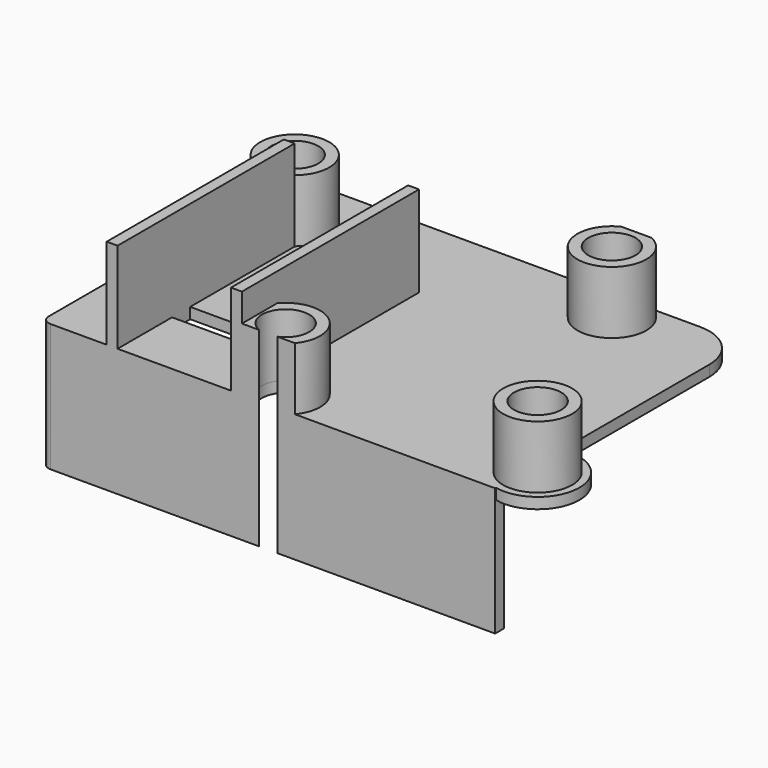
from build123d import *

# Parameters (mm, degrees)
SKETCH_W        = 50
SKETCH_H        = 34.5
PAD_DEPTH       = 1.2
SKETCH001_R     = 2.6
POCKET_DEPTH    = 1.201
SKETCH002_W     = 1.2
SKETCH002_H     = 24.4
PAD001_DEPTH    = 10
SKETCH003_W     = 50
SKETCH003_H     = 14.1
PAD002_DEPTH    = 1.2
SKETCH004_R     = 2.6
SKETCH004_W     = 12.5
SKETCH004_H     = 2.5
POCKET001_DEPTH = 14.101
SKETCH005_R     = 4.6
SKETCH005_R_2   = 2.6
PAD003_DEPTH    = 1.2
FILLET_R        = 1
FILLET001_R     = 5
SKETCH006_R     = 3.8
SKETCH006_R_2   = 2.6
PAD004_DEPTH    = 6.9
SKETCH007_W     = 9
SKETCH007_H     = 2
SKETCH007_W_2   = 3.353744
SKETCH007_H_2   = 0.7
POCKET002_DEPTH = 10


with BuildPart() as part:
    # Sketch → Pad (new body)
    with BuildSketch(Plane.XY):
        Rectangle(SKETCH_W, SKETCH_H)
    extrude(amount=PAD_DEPTH)

    # Sketch001 (on Face6 of Pad) → Pocket (cut, through all)
    with BuildSketch(Plane.XY.offset(1.2)):
        with Locations((0, -14.85)):
            Circle(SKETCH001_R)
        with Locations((-19, 10.15)):
            Circle(SKETCH001_R)
        with Locations((13, 13.842333)):
            Circle(SKETCH001_R)
        with Locations((26, -12.638792)):
            Circle(SKETCH001_R)
    extrude(amount=-POCKET_DEPTH, mode=Mode.SUBTRACT)

    # Sketch002 (on Face5 of Pocket) → Pad001 (join)
    with BuildSketch(Plane.XY.offset(1.2)):
        with Locations((-3.5, -5.05)):
            Rectangle(SKETCH002_W, SKETCH002_H)
        with Locations((-17.2, -5.05)):
            Rectangle(SKETCH002_W, SKETCH002_H)
    extrude(amount=PAD001_DEPTH)

    # Sketch003 (on Face6 of Pad001) → Pad002 (join)
    with BuildSketch(Plane.XZ.offset(17.25)):
        with Locations((0, -5.85)):
            Rectangle(SKETCH003_W, SKETCH003_H)
    extrude(amount=-PAD002_DEPTH)

    # Sketch004 (on Face5 of Pad002) → Pocket001 (cut, through all)
    with BuildSketch(Plane.XY.offset(1.2)):
        with Locations((0, -14.85)):
            Circle(SKETCH004_R)
        with Locations((-10.35, -8.5)):
            Rectangle(SKETCH004_W, SKETCH004_H)
    extrude(amount=-POCKET001_DEPTH, mode=Mode.SUBTRACT)

    # Sketch005 (on Face5 of Pocket001) → Pad003 (join)
    with BuildSketch(Plane.XY.offset(1.2)):
        with Locations((26, -12.638792)):
            Circle(SKETCH005_R)
        with Locations((26, -12.638792)):
            Circle(SKETCH005_R_2, mode=Mode.SUBTRACT)
    extrude(amount=-PAD003_DEPTH)

    # Fillet
    fillet_edges = [part.edges().sort_by_distance(p)[0] for p in [
        (-25, -17.25, -6.45),
        (-25, -17.25, 0.6),
    ]]
    fillet(fillet_edges, radius=FILLET_R)

    # Fillet001
    fillet001_edges = [part.edges().sort_by_distance(p)[0] for p in [
        (-25, 17.25, 0.6),
        (25, 17.25, 0.6),
    ]]
    fillet(fillet001_edges, radius=FILLET001_R)

    # Sketch006 (on Face5 of Fillet001) → Pad004 (join)
    with BuildSketch(Plane.XY.offset(1.2)):
        with Locations((-19, 10.15)):
            Circle(SKETCH006_R)
        with Locations((-19, 10.15)):
            Circle(SKETCH006_R_2, mode=Mode.SUBTRACT)
        with Locations((12.996001, 13.84)):
            Circle(SKETCH006_R)
        with Locations((12.996001, 13.84)):
            Circle(SKETCH006_R_2, mode=Mode.SUBTRACT)
        with Locations((26, -12.638792)):
            Circle(SKETCH006_R)
        with Locations((26, -12.638792)):
            Circle(SKETCH006_R_2, mode=Mode.SUBTRACT)
        with Locations((0, -14.85)):
            Circle(SKETCH006_R)
        with Locations((0, -14.85)):
            Circle(SKETCH006_R_2, mode=Mode.SUBTRACT)
    extrude(amount=PAD004_DEPTH)

    # Sketch007 (on Face5 of Pad004) → Pocket002 (cut)
    with BuildSketch(Plane.XY.offset(1.2)):
        with Locations((0.4, -18.25)):
            Rectangle(SKETCH007_W, SKETCH007_H)
        with Locations((12.996001, 17.6)):
            Rectangle(SKETCH007_W_2, SKETCH007_H_2)
    extrude(amount=POCKET002_DEPTH, mode=Mode.SUBTRACT)


solid = part.part
